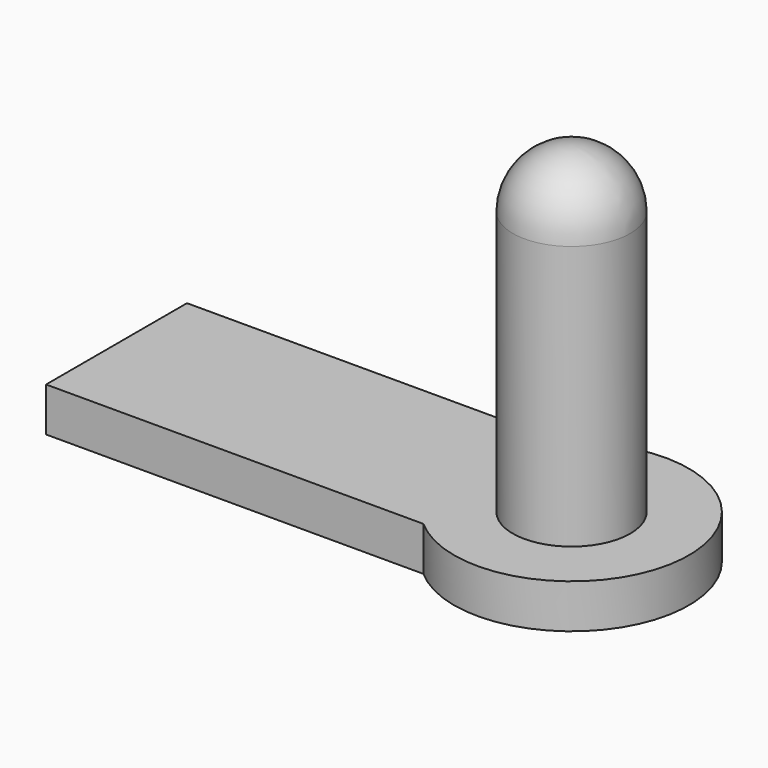
from build123d import *

# Parameters (mm, degrees)
BOX003_W          = 1.55
BOX003_H          = 0.6
BOX003_DEPTH      = 0.15
CYLINDER001_R     = 0.2
CYLINDER001_DEPTH = 1.25
CYLINDER_R        = 0.4
CYLINDER_DEPTH    = 0.15
FILLET001_R       = 0.2


with BuildPart() as cube003:
    # Box003 → Box003 (new body)
    with BuildSketch(Plane(origin=(-0.25, 1, 0), x_dir=(1, 0, 0), z_dir=(0, 0, 1))):
        with Locations((0.775, 0.3)):
            Rectangle(BOX003_W, BOX003_H)
    extrude(amount=BOX003_DEPTH)


with BuildPart() as cylinder001:
    # Cylinder001 → Cylinder001 (new body)
    with BuildSketch(Plane(origin=(1.3, 1.3, 0), x_dir=(1, 0, 0), z_dir=(0, 0, 1))):
        Circle(CYLINDER001_R)
    extrude(amount=CYLINDER001_DEPTH)


with BuildPart() as pin:
    # Cylinder → Cylinder (new body)
    with BuildSketch(Plane(origin=(1.3, 1.3, 0), x_dir=(1, 0, 0), z_dir=(0, 0, 1))):
        Circle(CYLINDER_R)
    extrude(amount=CYLINDER_DEPTH)

    # Fusion001: union Cube003, Cylinder001
    add(cube003.part)
    add(cylinder001.part)

    # Fillet001
    fillet001_edges = [pin.edges().sort_by_distance(p)[0] for p in [
        (1.1, 1.3, 1.25),
    ]]
    fillet(fillet001_edges, radius=FILLET001_R)


with BuildPart() as pin_1:
    # Fillet001 placement: moved
    add(pin.part.moved(Location((-1.3, -1.3, 0))))


solid = pin_1.part
